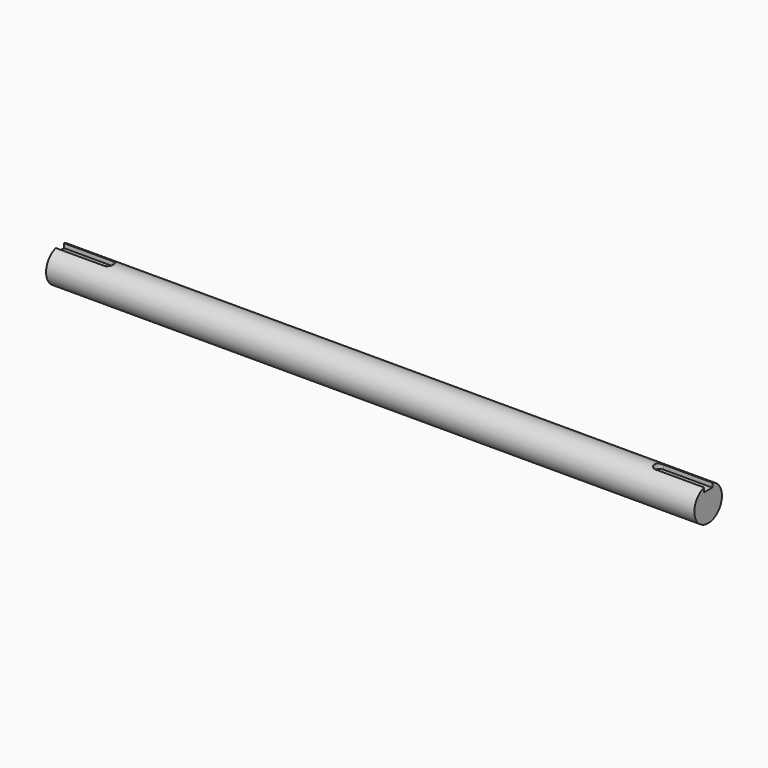
from build123d import *

# Parameters (mm, degrees)
F0_R     = 7.9375
F1_DEPTH = 149.225
F4_DEPTH = 2.38125


with BuildPart() as f1:
    # F0 (on Right) → F1 (new body, symmetric)
    with BuildSketch(Plane.YZ):
        Circle(F0_R)
    extrude(amount=F1_DEPTH, both=True)

    # F3 (on offset) → F4 (cut)
    with BuildSketch(Plane.XY.offset(7.9375)):
        with BuildLine():
            ThreePointArc((149.225, -2.38125), (151.60625, 0), (149.225, 2.38125))
            Line((149.225, 2.38125), (126.873, 2.38125))
            ThreePointArc((126.873, 2.38125), (124.49175, 0), (126.873, -2.38125))
            Line((126.873, -2.38125), (149.225, -2.38125))
        make_face()
        with BuildLine():
            Line((-149.225, -2.38125), (-126.873, -2.38125))
            ThreePointArc((-126.873, -2.38125), (-124.49175, 0), (-126.873, 2.38125))
            Line((-126.873, 2.38125), (-149.225, 2.38125))
            Line((-149.225, 2.38125), (-149.225, 0))
            Line((-149.225, 0), (-149.225, -2.38125))
        make_face()
        with BuildLine():
            ThreePointArc((-149.225, 2.38125), (-151.60625, 0), (-149.225, -2.38125))
            Line((-149.225, -2.38125), (-149.225, 0))
            Line((-149.225, 0), (-149.225, 2.38125))
        make_face()
    extrude(amount=-F4_DEPTH, mode=Mode.SUBTRACT)


solid = f1.part
